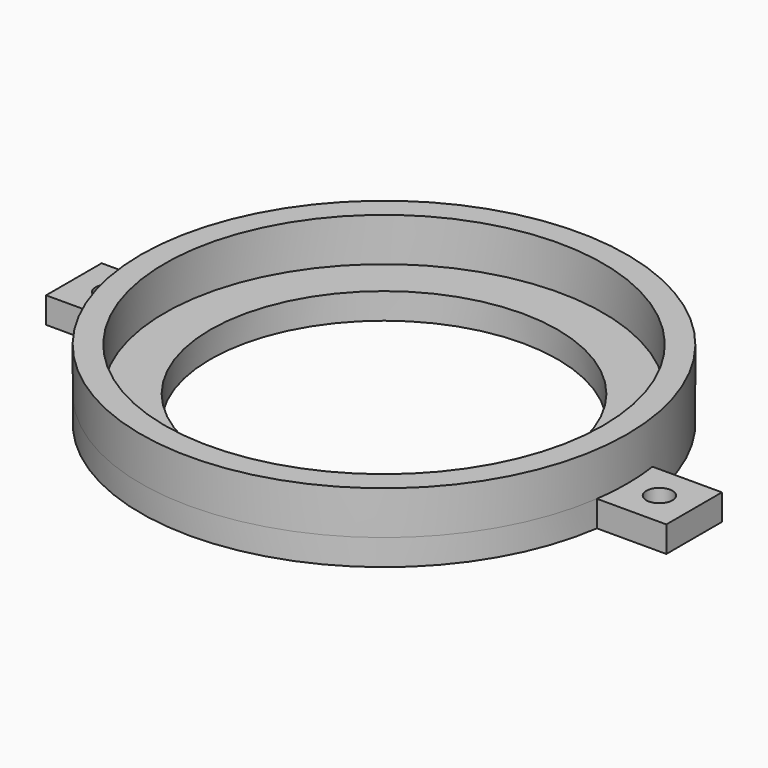
from build123d import *

# Parameters (mm, degrees)
SKETCH023_R     = 20
PAD007_DEPTH    = 3
SKETCH251_R     = 28
SKETCH251_R_2   = 25.25
PAD095_DEPTH    = 5
SKETCH256_R     = 1.5
POCKET125_DEPTH = 8.001


with BuildPart() as part:
    # Sketch023 → Pad007 (new body)
    with BuildSketch(Plane.XY):
        with BuildLine():
            Line((27.712813, -4), (35.712813, -4))
            Line((35.712813, -4), (35.712813, 4))
            Line((35.712813, 4), (27.712813, 4))
            ThreePointArc((27.712813, 4), (0, 28), (-27.712813, 4))
            Line((-35.712813, 4), (-27.712813, 4))
            Line((-35.712813, -4), (-35.712813, 4))
            Line((-27.712813, -4), (-35.712813, -4))
            ThreePointArc((-27.712813, -4), (0, -28), (27.712813, -4))
        make_face()
        Circle(SKETCH023_R, mode=Mode.SUBTRACT)
    extrude(amount=PAD007_DEPTH)

    # Sketch251 → Pad095 (join)
    with BuildSketch(Plane.XY.offset(3)):
        Circle(SKETCH251_R)
        Circle(SKETCH251_R_2, mode=Mode.SUBTRACT)
    extrude(amount=PAD095_DEPTH)

    # Sketch256 (on Face4 of Pad095) → Pocket125 (cut, through all)
    with BuildSketch(Plane(origin=(0, 0, 0), x_dir=(1, 0, 0), z_dir=(0, 0, -1))):
        with Locations((31.712813, 0)):
            Circle(SKETCH256_R)
        with Locations((-31.712813, 0)):
            Circle(SKETCH256_R)
    extrude(amount=-POCKET125_DEPTH, mode=Mode.SUBTRACT)


with BuildPart() as part_1:
    # Body007 placement: moved
    add(part.part.moved(Location((0, 0, 56))))


solid = part_1.part
